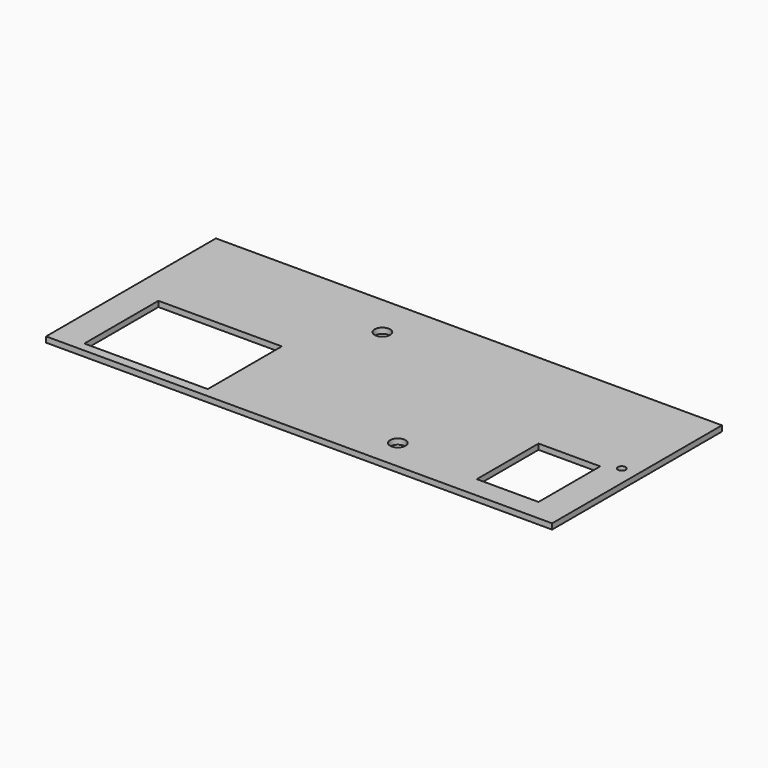
from build123d import *

# Parameters (mm, degrees)
SKETCH_W      = 164
SKETCH_H      = 68.8
PAD_DEPTH     = 1.8
SKETCH001_R   = 2.5
SKETCH001_R_2 = 1.25
SKETCH001_W   = 40
SKETCH001_H   = 30
SKETCH001_W_2 = 20
SKETCH001_H_2 = 25
POCKET_DEPTH  = 5


with BuildPart() as part:
    # Sketch → Pad (new body)
    with BuildSketch(Plane.XY):
        with Locations((82, 34.4)):
            Rectangle(SKETCH_W, SKETCH_H)
    extrude(amount=PAD_DEPTH)

    # Sketch001 (on Face6 of Pad) → Pocket (cut)
    with BuildSketch(Plane.XY.offset(1.8)):
        with Locations((65, 55)):
            Circle(SKETCH001_R)
        with Locations((106, 10)):
            Circle(SKETCH001_R)
        with Locations((159, 34.5)):
            Circle(SKETCH001_R_2)
        with Locations((30, 18)):
            Rectangle(SKETCH001_W, SKETCH001_H)
        with Locations((144, 19.5)):
            Rectangle(SKETCH001_W_2, SKETCH001_H_2)
    extrude(amount=-POCKET_DEPTH, mode=Mode.SUBTRACT)


solid = part.part
